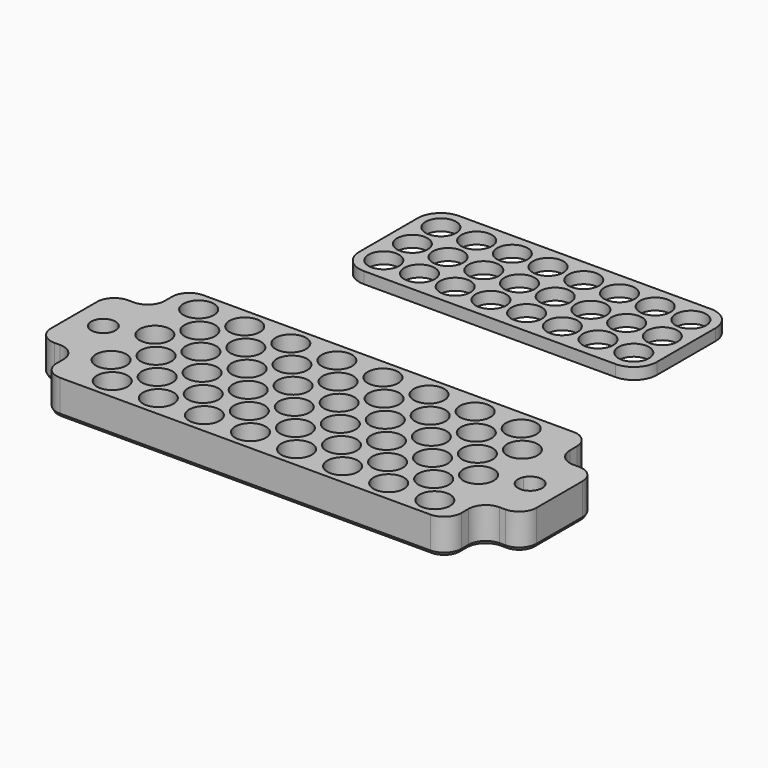
from build123d import *

# Parameters (mm, degrees)
F0_R     = 2.65
F1_DEPTH = 2
F2_DEPTH = 6
F3_R     = 3
F4_SIZE2 = 0.519615
F4_SIZE  = 0.3


with BuildPart() as f1:
    # F0 (on Top) → F1 (new body)
    with BuildSketch(Plane.XY):
        with BuildLine():
            Line((11.079621, 36.247157), (-32.620379, 36.247157))
            ThreePointArc((-32.620379, 36.247157), (-35.448806, 35.075584), (-36.620379, 32.247157))
            Line((-36.620379, 32.247157), (-36.620379, 19.547157))
            ThreePointArc((-36.620379, 19.547157), (-35.448806, 16.71873), (-32.620379, 15.547157))
            Line((-32.620379, 15.547157), (11.079621, 15.547157))
            ThreePointArc((11.079621, 15.547157), (13.908048, 16.71873), (15.079621, 19.547157))
            Line((15.079621, 19.547157), (15.079621, 32.247157))
            ThreePointArc((15.079621, 32.247157), (13.908048, 35.075584), (11.079621, 36.247157))
        make_face()
        with Locations((-32.470379, 19.697157)):
            Circle(F0_R, mode=Mode.SUBTRACT)
        with Locations((-32.470379, 25.897157)):
            Circle(F0_R, mode=Mode.SUBTRACT)
        with Locations((-32.470379, 32.097157)):
            Circle(F0_R, mode=Mode.SUBTRACT)
        with Locations((-26.270379, 19.697157)):
            Circle(F0_R, mode=Mode.SUBTRACT)
        with Locations((-20.070379, 19.697157)):
            Circle(F0_R, mode=Mode.SUBTRACT)
        with Locations((-26.270379, 25.897157)):
            Circle(F0_R, mode=Mode.SUBTRACT)
        with Locations((-20.070379, 25.897157)):
            Circle(F0_R, mode=Mode.SUBTRACT)
        with Locations((-13.870379, 19.697157)):
            Circle(F0_R, mode=Mode.SUBTRACT)
        with Locations((-13.870379, 25.897157)):
            Circle(F0_R, mode=Mode.SUBTRACT)
        with Locations((-26.270379, 32.097157)):
            Circle(F0_R, mode=Mode.SUBTRACT)
        with Locations((-20.070379, 32.097157)):
            Circle(F0_R, mode=Mode.SUBTRACT)
        with Locations((-13.870379, 32.097157)):
            Circle(F0_R, mode=Mode.SUBTRACT)
        with Locations((-7.670379, 19.697157)):
            Circle(F0_R, mode=Mode.SUBTRACT)
        with Locations((-1.470379, 19.697157)):
            Circle(F0_R, mode=Mode.SUBTRACT)
        with Locations((-7.670379, 25.897157)):
            Circle(F0_R, mode=Mode.SUBTRACT)
        with Locations((-1.470379, 25.897157)):
            Circle(F0_R, mode=Mode.SUBTRACT)
        with Locations((4.729621, 19.697157)):
            Circle(F0_R, mode=Mode.SUBTRACT)
        with Locations((10.929621, 19.697157)):
            Circle(F0_R, mode=Mode.SUBTRACT)
        with Locations((4.729621, 25.897157)):
            Circle(F0_R, mode=Mode.SUBTRACT)
        with Locations((10.929621, 25.897157)):
            Circle(F0_R, mode=Mode.SUBTRACT)
        with Locations((-7.670379, 32.097157)):
            Circle(F0_R, mode=Mode.SUBTRACT)
        with Locations((-1.470379, 32.097157)):
            Circle(F0_R, mode=Mode.SUBTRACT)
        with Locations((4.729621, 32.097157)):
            Circle(F0_R, mode=Mode.SUBTRACT)
        with Locations((10.929621, 32.097157)):
            Circle(F0_R, mode=Mode.SUBTRACT)
    extrude(amount=F1_DEPTH)


with BuildPart() as f2:
    # F0 (on Top) → F2 (new body)
    with BuildSketch(Plane.XY):
        with BuildLine():
            Line((26.882081, -9.584441), (-43.417919, -9.584441))
            Line((-43.417919, -9.584441), (-43.417919, -17.109441))
            Line((-43.417919, -17.109441), (-43.417919, -24.215013))
            ThreePointArc((-43.417919, -24.215013), (-43.268528, -24.651183), (-43.217919, -25.109441))
            ThreePointArc((-43.217919, -25.109441), (-43.268528, -25.567698), (-43.417919, -26.003868))
            Line((-43.417919, -26.003868), (-43.417919, -33.109441))
            Line((-43.417919, -33.109441), (-43.417919, -40.634441))
            Line((-43.417919, -40.634441), (26.882081, -40.634441))
            Line((26.882081, -40.634441), (26.882081, -33.109441))
            Line((26.882081, -33.109441), (26.882081, -26.003868))
            ThreePointArc((26.882081, -26.003868), (26.682081, -25.109441), (26.882081, -24.215013))
            Line((26.882081, -24.215013), (26.882081, -17.109441))
            Line((26.882081, -17.109441), (26.882081, -9.584441))
        make_face()
        with Locations((-34.267919, -36.984441)):
            Circle(F0_R, mode=Mode.SUBTRACT)
        with Locations((-38.267919, -32.234441)):
            Circle(F0_R, mode=Mode.SUBTRACT)
        with Locations((-30.267919, -32.234441)):
            Circle(F0_R, mode=Mode.SUBTRACT)
        with Locations((-34.267919, -27.484441)):
            Circle(F0_R, mode=Mode.SUBTRACT)
        with Locations((-38.267919, -22.734441)):
            Circle(F0_R, mode=Mode.SUBTRACT)
        with Locations((-30.267919, -22.734441)):
            Circle(F0_R, mode=Mode.SUBTRACT)
        with Locations((-26.267919, -36.984441)):
            Circle(F0_R, mode=Mode.SUBTRACT)
        with Locations((-22.267919, -32.234441)):
            Circle(F0_R, mode=Mode.SUBTRACT)
        with Locations((-18.267919, -36.984441)):
            Circle(F0_R, mode=Mode.SUBTRACT)
        with Locations((-10.267919, -36.984441)):
            Circle(F0_R, mode=Mode.SUBTRACT)
        with Locations((-14.267919, -32.234441)):
            Circle(F0_R, mode=Mode.SUBTRACT)
        with Locations((-26.267919, -27.484441)):
            Circle(F0_R, mode=Mode.SUBTRACT)
        with Locations((-22.267919, -22.734441)):
            Circle(F0_R, mode=Mode.SUBTRACT)
        with Locations((-18.267919, -27.484441)):
            Circle(F0_R, mode=Mode.SUBTRACT)
        with Locations((-10.267919, -27.484441)):
            Circle(F0_R, mode=Mode.SUBTRACT)
        with Locations((-14.267919, -22.734441)):
            Circle(F0_R, mode=Mode.SUBTRACT)
        with Locations((-34.267919, -17.984441)):
            Circle(F0_R, mode=Mode.SUBTRACT)
        with Locations((-38.267919, -13.234441)):
            Circle(F0_R, mode=Mode.SUBTRACT)
        with Locations((-30.267919, -13.234441)):
            Circle(F0_R, mode=Mode.SUBTRACT)
        with Locations((-26.267919, -17.984441)):
            Circle(F0_R, mode=Mode.SUBTRACT)
        with Locations((-22.267919, -13.234441)):
            Circle(F0_R, mode=Mode.SUBTRACT)
        with Locations((-18.267919, -17.984441)):
            Circle(F0_R, mode=Mode.SUBTRACT)
        with Locations((-10.267919, -17.984441)):
            Circle(F0_R, mode=Mode.SUBTRACT)
        with Locations((-14.267919, -13.234441)):
            Circle(F0_R, mode=Mode.SUBTRACT)
        with Locations((-2.267919, -36.984441)):
            Circle(F0_R, mode=Mode.SUBTRACT)
        with Locations((-6.267919, -32.234441)):
            Circle(F0_R, mode=Mode.SUBTRACT)
        with Locations((1.732081, -32.234441)):
            Circle(F0_R, mode=Mode.SUBTRACT)
        with Locations((5.732081, -36.984441)):
            Circle(F0_R, mode=Mode.SUBTRACT)
        with Locations((9.732081, -32.234441)):
            Circle(F0_R, mode=Mode.SUBTRACT)
        with Locations((-2.267919, -27.484441)):
            Circle(F0_R, mode=Mode.SUBTRACT)
        with Locations((-6.267919, -22.734441)):
            Circle(F0_R, mode=Mode.SUBTRACT)
        with Locations((1.732081, -22.734441)):
            Circle(F0_R, mode=Mode.SUBTRACT)
        with Locations((5.732081, -27.484441)):
            Circle(F0_R, mode=Mode.SUBTRACT)
        with Locations((9.732081, -22.734441)):
            Circle(F0_R, mode=Mode.SUBTRACT)
        with Locations((13.732081, -36.984441)):
            Circle(F0_R, mode=Mode.SUBTRACT)
        with Locations((21.732081, -36.984441)):
            Circle(F0_R, mode=Mode.SUBTRACT)
        with Locations((17.732081, -32.234441)):
            Circle(F0_R, mode=Mode.SUBTRACT)
        with Locations((13.732081, -27.484441)):
            Circle(F0_R, mode=Mode.SUBTRACT)
        with Locations((21.732081, -27.484441)):
            Circle(F0_R, mode=Mode.SUBTRACT)
        with Locations((17.732081, -22.734441)):
            Circle(F0_R, mode=Mode.SUBTRACT)
        with Locations((-2.267919, -17.984441)):
            Circle(F0_R, mode=Mode.SUBTRACT)
        with Locations((-6.267919, -13.234441)):
            Circle(F0_R, mode=Mode.SUBTRACT)
        with Locations((1.732081, -13.234441)):
            Circle(F0_R, mode=Mode.SUBTRACT)
        with Locations((5.732081, -17.984441)):
            Circle(F0_R, mode=Mode.SUBTRACT)
        with Locations((9.732081, -13.234441)):
            Circle(F0_R, mode=Mode.SUBTRACT)
        with Locations((13.732081, -17.984441)):
            Circle(F0_R, mode=Mode.SUBTRACT)
        with Locations((21.732081, -17.984441)):
            Circle(F0_R, mode=Mode.SUBTRACT)
        with Locations((17.732081, -13.234441)):
            Circle(F0_R, mode=Mode.SUBTRACT)
        with BuildLine():
            Line((-43.417919, -24.215013), (-43.417919, -17.109441))
            Line((-43.417919, -17.109441), (-50.417919, -17.109441))
            Line((-50.417919, -17.109441), (-50.417919, -33.109441))
            Line((-50.417919, -33.109441), (-43.417919, -33.109441))
            Line((-43.417919, -33.109441), (-43.417919, -26.003868))
            ThreePointArc((-43.417919, -26.003868), (-47.417919, -25.109441), (-43.417919, -24.215013))
        make_face()
        with BuildLine():
            Line((33.882081, -17.109441), (26.882081, -17.109441))
            Line((26.882081, -17.109441), (26.882081, -24.215013))
            ThreePointArc((26.882081, -24.215013), (29.240339, -23.06005), (30.882081, -25.109441))
            ThreePointArc((30.882081, -25.109441), (29.240339, -27.158831), (26.882081, -26.003868))
            Line((26.882081, -26.003868), (26.882081, -33.109441))
            Line((26.882081, -33.109441), (33.882081, -33.109441))
            Line((33.882081, -33.109441), (33.882081, -17.109441))
        make_face()
    extrude(amount=F2_DEPTH)

    # F3
    f3_edges = [f2.edges().sort_by_distance(p)[0] for p in [
        (-43.417919, -9.584441, 3),
        (-43.417919, -40.634441, 3),
        (26.882081, -40.634441, 3),
        (26.882081, -9.584441, 3),
        (-43.417919, -17.109441, 3),
        (-50.417919, -17.109441, 3),
        (-50.417919, -33.109441, 3),
        (-43.417919, -33.109441, 3),
        (26.882081, -33.109441, 3),
        (33.882081, -33.109441, 3),
        (33.882081, -17.109441, 3),
        (26.882081, -17.109441, 3),
    ]]
    fillet(f3_edges, radius=F3_R)

    # F4
    f4_edges = [f2.edges().sort_by_distance(p)[0] for p in [
        (26.882081, -13.346941, 0),
        (27.760761, -16.230761, 0),
        (26.003402, -10.46312, 0),
        (30.382081, -17.109441, 0),
        (-8.267919, -9.584441, 0),
        (33.003402, -17.98812, 0),
        (-42.539239, -10.46312, 0),
        (33.882081, -25.109441, 0),
        (-43.417919, -13.346941, 0),
        (33.003402, -32.230761, 0),
        (-44.296598, -16.230761, 0),
        (30.382081, -33.109441, 0),
        (-46.917919, -17.109441, 0),
        (27.760761, -33.98812, 0),
        (-49.539239, -17.98812, 0),
        (26.882081, -36.871941, 0),
        (-50.417919, -25.109441, 0),
        (26.003402, -39.755761, 0),
        (-49.539239, -32.230761, 0),
        (-8.267919, -40.634441, 0),
        (-46.917919, -33.109441, 0),
        (-42.539239, -39.755761, 0),
        (-44.296598, -33.98812, 0),
        (-43.417919, -36.871941, 0),
        (30.682081, -24.215013, 0),
        (-47.217919, -26.003868, 0),
        (-36.917919, -36.984441, 0),
        (-40.917919, -32.234441, 0),
        (-32.917919, -32.234441, 0),
        (-36.917919, -27.484441, 0),
        (-40.917919, -22.734441, 0),
        (-32.917919, -22.734441, 0),
        (-28.917919, -36.984441, 0),
        (-24.917919, -32.234441, 0),
        (-20.917919, -36.984441, 0),
        (-12.917919, -36.984441, 0),
        (-16.917919, -32.234441, 0),
        (-28.917919, -27.484441, 0),
        (-24.917919, -22.734441, 0),
        (-20.917919, -27.484441, 0),
        (-12.917919, -27.484441, 0),
        (-16.917919, -22.734441, 0),
        (-36.917919, -17.984441, 0),
        (-40.917919, -13.234441, 0),
        (-32.917919, -13.234441, 0),
        (-28.917919, -17.984441, 0),
        (-24.917919, -13.234441, 0),
        (-20.917919, -17.984441, 0),
        (-12.917919, -17.984441, 0),
        (-16.917919, -13.234441, 0),
        (-4.917919, -36.984441, 0),
        (-8.917919, -32.234441, 0),
        (-0.917919, -32.234441, 0),
        (3.082081, -36.984441, 0),
        (7.082081, -32.234441, 0),
        (-4.917919, -27.484441, 0),
        (-8.917919, -22.734441, 0),
        (-0.917919, -22.734441, 0),
        (3.082081, -27.484441, 0),
        (7.082081, -22.734441, 0),
        (11.082081, -36.984441, 0),
        (19.082081, -36.984441, 0),
        (15.082081, -32.234441, 0),
        (11.082081, -27.484441, 0),
        (19.082081, -27.484441, 0),
        (15.082081, -22.734441, 0),
        (-4.917919, -17.984441, 0),
        (-8.917919, -13.234441, 0),
        (-0.917919, -13.234441, 0),
        (3.082081, -17.984441, 0),
        (7.082081, -13.234441, 0),
        (11.082081, -17.984441, 0),
        (19.082081, -17.984441, 0),
        (15.082081, -13.234441, 0),
    ]]
    chamfer(f4_edges, length=F4_SIZE, length2=F4_SIZE2)


solid = Compound([f1.part, f2.part])
